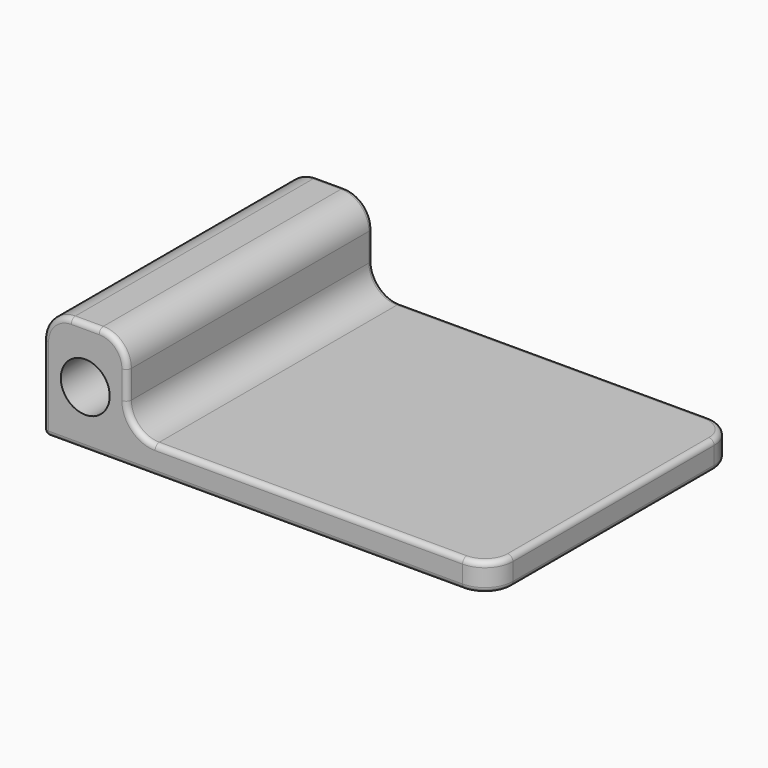
from build123d import *

# Parameters (mm, degrees)
SKETCH_W        = 203.2
SKETCH_H        = 139.7
PAD_DEPTH       = 50.8
SKETCH001_W     = 165.1
SKETCH001_H     = 38.1
POCKET_DEPTH    = 139.701
SKETCH002_R     = 11.1125
POCKET001_DEPTH = 139.701
FILLET_R        = 12.7
FILLET001_R     = 12.7
FILLET002_R     = 2.4


with BuildPart() as part:
    # Sketch → Pad (new body)
    with BuildSketch(Plane.XY):
        Rectangle(SKETCH_W, SKETCH_H)
    extrude(amount=PAD_DEPTH)

    # Sketch001 (on Face4 of Pad) → Pocket (cut, through all)
    with BuildSketch(Plane.XZ.offset(69.85)):
        with Locations((19.05, 31.75)):
            Rectangle(SKETCH001_W, SKETCH001_H)
    extrude(amount=-POCKET_DEPTH, mode=Mode.SUBTRACT)

    # Sketch002 (on Face2 of Pocket) → Pocket001 (cut, through all)
    with BuildSketch(Plane.XZ.offset(69.85)):
        with Locations((-82.55, 25.4)):
            Circle(SKETCH002_R)
    extrude(amount=-POCKET001_DEPTH, mode=Mode.SUBTRACT)

    # Fillet
    fillet_edges = [part.edges().sort_by_distance(p)[0] for p in [
        (-63.5, 0, 12.7),
        (-63.5, 0, 50.8),
        (-101.6, 0, 50.8),
    ]]
    fillet(fillet_edges, radius=FILLET_R)

    # Fillet001
    fillet001_edges = [part.edges().sort_by_distance(p)[0] for p in [
        (101.6, -69.85, 6.35),
        (101.6, 69.85, 6.35),
    ]]
    fillet(fillet001_edges, radius=FILLET001_R)

    # Fillet002
    fillet002_edges = [part.edges().sort_by_distance(p)[0] for p in [
        (19.05, -69.85, 12.7),
        (-59.780256, -69.85, 16.419744),
        (-63.5, -69.85, 31.75),
        (-67.219744, -69.85, 47.080256),
        (-82.55, -69.85, 50.8),
        (-97.880256, -69.85, 47.080256),
        (-101.6, -69.85, 19.05),
        (97.880256, -66.130256, 12.7),
        (101.6, 0, 12.7),
        (97.880256, 66.130256, 12.7),
        (19.05, 69.85, 12.7),
        (-59.780256, 69.85, 16.419744),
        (-63.5, 69.85, 31.75),
        (-67.219744, 69.85, 47.080256),
        (-82.55, 69.85, 50.8),
        (-97.880256, 69.85, 47.080256),
        (-101.6, 69.85, 19.05),
        (-6.35, -69.85, 0),
        (97.880256, -66.130256, 0),
        (101.6, 0, 0),
        (97.880256, 66.130256, 0),
        (-6.35, 69.85, 0),
        (-101.6, 0, 0),
    ]]
    fillet(fillet002_edges, radius=FILLET002_R)


solid = part.part
